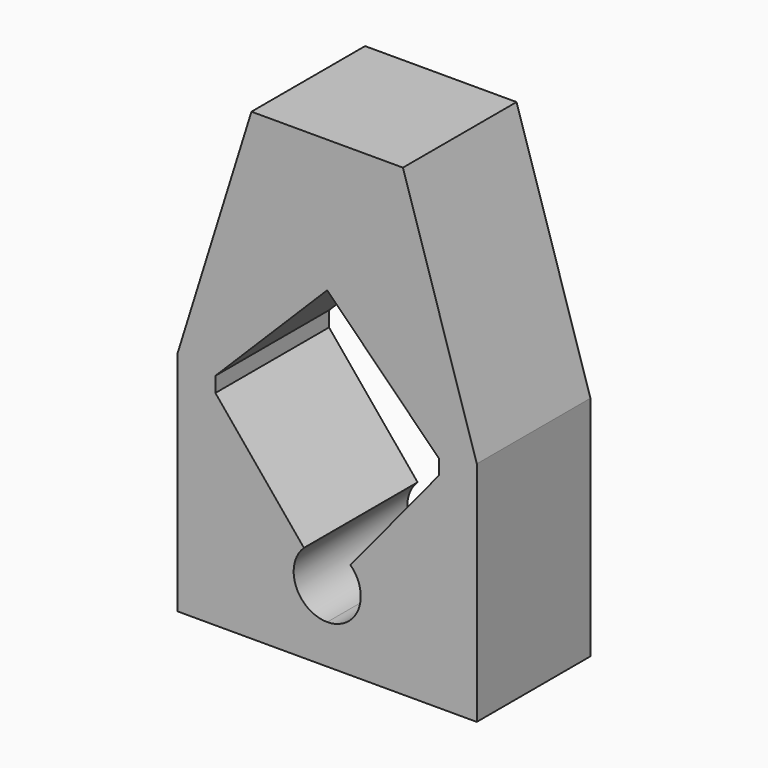
from build123d import *

# Parameters (mm, degrees)
F0_W     = 40.132
F0_H     = 19.05
F1_DEPTH = 62.23
F3_DEPTH = 25.4
F5_DEPTH = 25.4


with BuildPart() as f1:
    # F0 (on Top) → F1 (new body)
    with BuildSketch(Plane.XY):
        with Locations((34.380583, 22.322809)):
            Rectangle(F0_W, F0_H)
    extrude(amount=F1_DEPTH)

    # F2 (on face) → F3 (cut)
    with BuildSketch(Plane.XZ.offset(-12.797809)):
        Polygon((49.35965, 29.470933), (34.380583, 44.45), (34.380583, 29.470933), align=None)
        Polygon((34.380583, 29.470933), (34.380583, 44.45), (19.385723, 29.470933), align=None)
        with BuildLine():
            Line((49.35965, 29.470933), (34.380583, 29.470933))
            Line((34.380583, 29.470933), (34.380583, 5.267071))
            ThreePointArc((34.380583, 5.267071), (38.556777, 8.086362), (37.500633, 13.013183))
            Line((37.500633, 13.013183), (49.35965, 27.438933))
            Line((49.35965, 27.438933), (49.35965, 29.470933))
        make_face()
        with BuildLine():
            Line((34.380583, 5.267071), (34.380583, 29.470933))
            Line((34.380583, 29.470933), (19.385723, 29.470933))
            Line((19.385723, 29.470933), (19.385723, 27.438933))
            Line((19.385723, 27.438933), (31.262963, 13.013183))
            ThreePointArc((31.262963, 13.013183), (30.206365, 8.087489), (34.380583, 5.267071))
        make_face()
    extrude(amount=-F3_DEPTH, mode=Mode.SUBTRACT)

    # F4 (on face) → F5 (cut)
    with BuildSketch(Plane.XZ.offset(-12.797809)):
        Polygon((14.314583, 62.23), (14.314583, 30.48), (24.220583, 62.23), align=None)
        Polygon((54.446583, 62.23), (44.540583, 62.23), (54.446583, 30.48), align=None)
    extrude(amount=-F5_DEPTH, mode=Mode.SUBTRACT)


solid = f1.part
